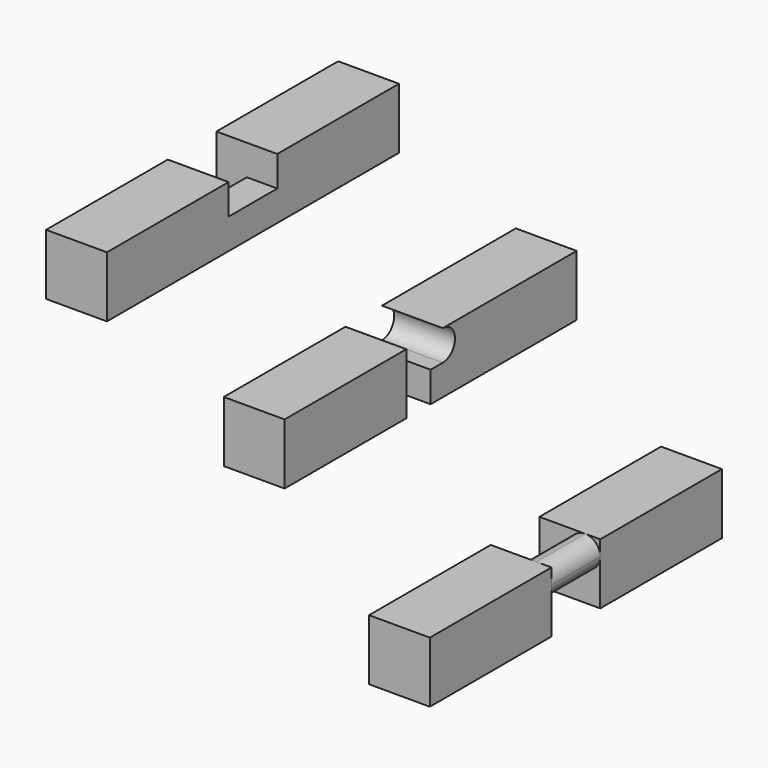
from build123d import *

# Parameters (mm, degrees)
F0_W      = 20
F0_H      = 20
F1_DEPTH  = 50
F2_W      = 20
F2_H      = 10
F3_DEPTH  = 10
F4_W      = 10
F4_H      = 10
F5_DEPTH  = 10
F6_W      = 10
F6_H      = 10
F7_DEPTH  = 50
F8_W      = 20
F8_H      = 20
F9_DEPTH  = 60
F10_W     = 10
F10_H     = 10
F11_DEPTH = 10
F13_DEPTH = 20
F14_W     = 10
F14_H     = 10
F15_DEPTH = 50
F16_W     = 20
F16_H     = 20
F17_DEPTH = 50
F19_DEPTH = 20
F21_DEPTH = 50
F22_DEPTH = 10
F23_W     = 10
F23_H     = 10
F24_DEPTH = 10


with BuildPart() as f1:
    # F0 (on Front) → F1 (new body)
    with BuildSketch(Plane.XZ):
        with Locations((-57.0076722652, 39.3739437685)):
            Rectangle(F0_W, F0_H)
    extrude(amount=F1_DEPTH)

    # F2 (on face) → F3 (join)
    with BuildSketch(Plane.XZ.offset(50)):
        with Locations((-57.0076722652, 34.3739437685)):
            Rectangle(F2_W, F2_H)
    extrude(amount=F3_DEPTH)

    # F4 (on face) → F5 (join)
    with BuildSketch(Plane.XZ.offset(60)):
        with Locations((-52.0076722652, 34.3739437685)):
            Rectangle(F4_W, F4_H)
    extrude(amount=F5_DEPTH)

    # F6 (on face) → F7 (join)
    with BuildSketch(Plane.XZ.offset(70)):
        Polygon((-67.0076722652, 29.3739437685), (-57.0076722652, 29.3739437685), (-57.0076722652, 39.3739437685), (-47.0076722652, 39.3739437685), (-47.0076722652, 49.3739437685), (-67.0076722652, 49.3739437685), align=None)
        with Locations((-52.0076722652, 34.3739437685)):
            Rectangle(F6_W, F6_H)
    extrude(amount=F7_DEPTH)

    # F22 (cut): a face of the model
    f22_faces = [f1.faces().sort_by_distance(p)[0] for p in [
        (-62.0076722652, -60, 34.3739437685),
    ]]
    extrude(f22_faces, amount=-F22_DEPTH, mode=Mode.SUBTRACT)

    # F23 (on face) → F24 (join)
    with BuildSketch(Plane(origin=(-57.0076722652, 0, 0), x_dir=(0, -1, 0), z_dir=(-1, 0, 0))):
        with Locations((65, 34.3739437685)):
            Rectangle(F23_W, F23_H)
    extrude(amount=F24_DEPTH)


with BuildPart() as f9:
    # F8 (on Front) → F9 (new body)
    with BuildSketch(Plane.XZ):
        with Locations((1.4022570103, 10)):
            Rectangle(F8_W, F8_H)
    extrude(amount=F9_DEPTH)

    # F10 (on face) → F11 (join)
    with BuildSketch(Plane.XZ.offset(60)):
        with Locations((-3.5977429897, 5)):
            Rectangle(F10_W, F10_H)
    extrude(amount=F11_DEPTH)

    # F12 (on face) → F13 (cut)
    with BuildSketch(Plane(origin=(-8.5977429897, 0, 0), x_dir=(0, -1, 0), z_dir=(-1, 0, 0))):
        with BuildLine():
            Line((60, 20), (55, 20))
            ThreePointArc((55, 20), (50, 15), (55, 10))
            Line((55, 10), (60, 10))
            Line((60, 10), (60, 20))
        make_face()
    extrude(amount=-F13_DEPTH, mode=Mode.SUBTRACT)

    # F14 (on face) → F15 (join)
    with BuildSketch(Plane.XZ.offset(70)):
        with Locations((-3.5977429897, 5)):
            Rectangle(F14_W, F14_H)
        Polygon((1.4022570103, 10), (1.4022570103, 0), (11.4022570103, 0), (11.4022570103, 20), (-8.5977429897, 20), (-8.5977429897, 10), align=None)
    extrude(amount=F15_DEPTH)


with BuildPart() as f17:
    # F16 (on Front) → F17 (new body)
    with BuildSketch(Plane.XZ):
        with Locations((49.1505376995, -37.6162012305)):
            Rectangle(F16_W, F16_H)
    extrude(amount=F17_DEPTH)

    # F18 (on face) → F19 (join)
    with BuildSketch(Plane.XZ.offset(50)):
        with BuildLine():
            ThreePointArc((54.1505376995, -27.6162012305), (50.6150037935, -36.1517351364), (59.1505376995, -32.6162012305))
            ThreePointArc((59.1505376995, -32.6162012305), (57.6860716054, -29.0806673245), (54.1505376995, -27.6162012305))
        make_face()
    extrude(amount=F19_DEPTH)

    # F20 (on face) → F21 (join)
    with BuildSketch(Plane.XZ.offset(70)):
        with BuildLine():
            Line((54.1505376995, -27.6162012305), (39.1505376995, -27.6162012305))
            Line((39.1505376995, -27.6162012305), (39.1505376995, -47.6162012305))
            Line((39.1505376995, -47.6162012305), (59.1505376995, -47.6162012305))
            Line((59.1505376995, -47.6162012305), (59.1505376995, -32.6162012305))
            ThreePointArc((59.1505376995, -32.6162012305), (50.6150037935, -36.1517351364), (54.1505376995, -27.6162012305))
        make_face()
        with BuildLine():
            ThreePointArc((59.1505376995, -32.6162012305), (57.6860716054, -29.0806673245), (54.1505376995, -27.6162012305))
            ThreePointArc((54.1505376995, -27.6162012305), (50.6150037935, -36.1517351364), (59.1505376995, -32.6162012305))
        make_face()
        with BuildLine():
            Line((59.1505376995, -27.6162012305), (54.1505376995, -27.6162012305))
            ThreePointArc((54.1505376995, -27.6162012305), (57.6860716054, -29.0806673245), (59.1505376995, -32.6162012305))
            Line((59.1505376995, -32.6162012305), (59.1505376995, -27.6162012305))
        make_face()
    extrude(amount=F21_DEPTH)


solid = Compound([f1.part, f9.part, f17.part])
